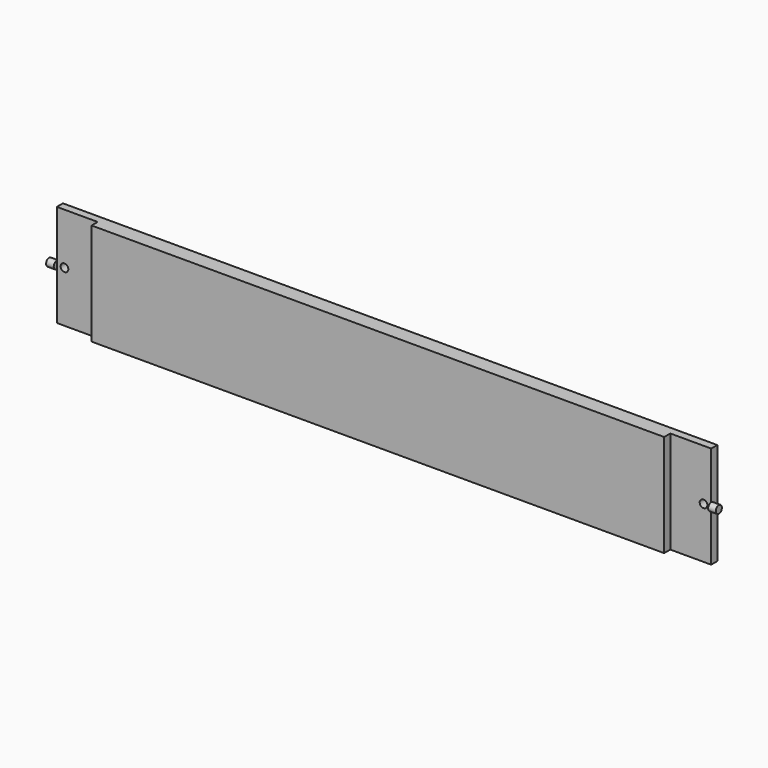
from build123d import *

# Parameters (mm, degrees)
F1_DEPTH = 127
F3_R     = 4.7625
F4_DEPTH = 9.525
F6_R     = 4.7625
F7_DEPTH = 9.525
F8_R     = 4.7625
F9_DEPTH = 25.4


with BuildPart() as f1:
    # F0 (on Top) → F1 (new body)
    with BuildSketch(Plane.XY):
        Polygon((-355.6, 0), (-355.6, -9.525), (355.6, -9.525), (355.6, 0), (406.4, 0), (406.4, 9.525), (-406.4, 9.525), (-406.4, 0), align=None)
    extrude(amount=F1_DEPTH)

    # F3 (on offset) → F4 (join)
    with BuildSketch(Plane.YZ.offset(406.4)):
        with Locations((0, 63.5)):
            Circle(F3_R)
    extrude(amount=F4_DEPTH)

    # F6 (on offset) → F7 (join)
    with BuildSketch(Plane.YZ.offset(-406.4)):
        with Locations((0, 63.5)):
            Circle(F6_R)
    extrude(amount=-F7_DEPTH)

    # F8 (on Front) → F9 (cut)
    with BuildSketch(Plane.XZ):
        with Locations((396.875, 63.5)):
            Circle(F8_R)
        with Locations((-396.875, 63.5)):
            Circle(F8_R)
    extrude(amount=-F9_DEPTH, mode=Mode.SUBTRACT)


solid = f1.part
